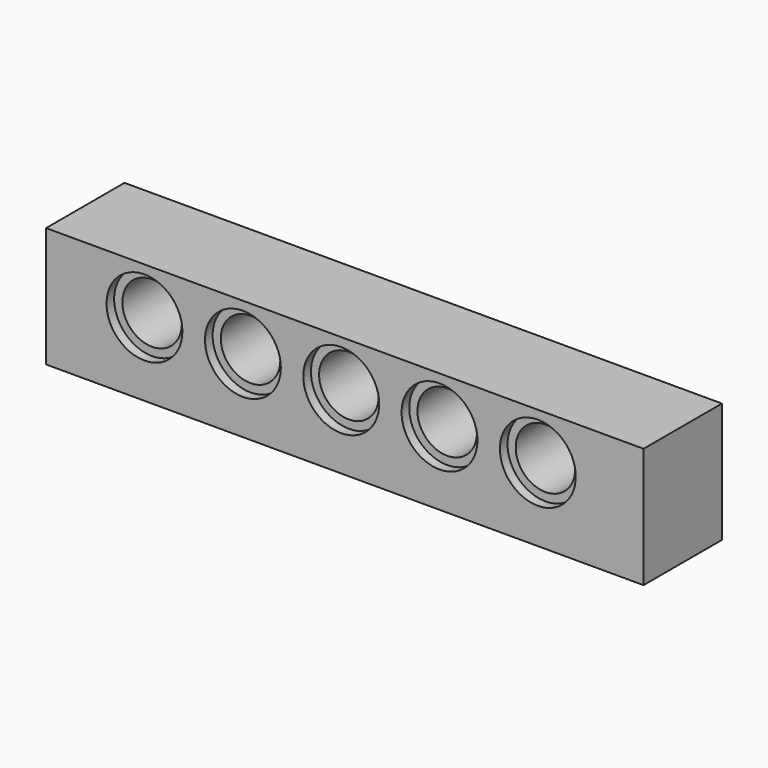
from build123d import *

# Parameters (mm, degrees)
F0_W     = 47.7012
F0_H     = 9.5885
F1_DEPTH = 7.8232
F3_R     = 2.3749
F4_DEPTH = 8.12476
F5_R     = 3.02895
F5_R_2   = 3.028652
F6_DEPTH = 0.762
F7_R     = 3.02895
F7_R_2   = 3.028652
F8_DEPTH = 0.762


with BuildPart() as f1:
    # F0 (on Front) → F1 (new body)
    with BuildSketch(Plane.XZ):
        with Locations((-0.66396, -3.743826)):
            Rectangle(F0_W, F0_H)
    extrude(amount=F1_DEPTH)

    # F3 (on Front) → F4 (cut)
    with BuildSketch(Plane.XZ):
        with Locations((14.746952, -2.674865)):
            Circle(F3_R)
        with Locations((6.898352, -2.675486)):
            Circle(F3_R)
        with Locations((-0.950248, -2.676107)):
            Circle(F3_R)
        with Locations((-8.798848, -2.676728)):
            Circle(F3_R)
        with Locations((-16.65961, -2.677026)):
            Circle(F3_R)
    extrude(amount=F4_DEPTH, mode=Mode.SUBTRACT)

    # F5 (on Front) → F6 (cut)
    with BuildSketch(Plane.XZ):
        with Locations((14.746952, -2.674865)):
            Circle(F5_R)
        with Locations((6.898352, -2.675486)):
            Circle(F5_R)
        with Locations((-0.950248, -2.676107)):
            Circle(F5_R)
        with Locations((-8.798848, -2.676728)):
            Circle(F5_R_2)
        with Locations((-16.65961, -2.677026)):
            Circle(F5_R)
    extrude(amount=F6_DEPTH, mode=Mode.SUBTRACT)

    # F7 (on face) → F8 (cut)
    with BuildSketch(Plane.XZ.offset(7.8232)):
        with Locations((14.746952, -2.674865)):
            Circle(F7_R)
        with Locations((6.898352, -2.675486)):
            Circle(F7_R)
        with Locations((-0.950248, -2.676107)):
            Circle(F7_R)
        with Locations((-8.798848, -2.676728)):
            Circle(F7_R_2)
        with Locations((-16.65961, -2.677026)):
            Circle(F7_R)
    extrude(amount=-F8_DEPTH, mode=Mode.SUBTRACT)


solid = f1.part
